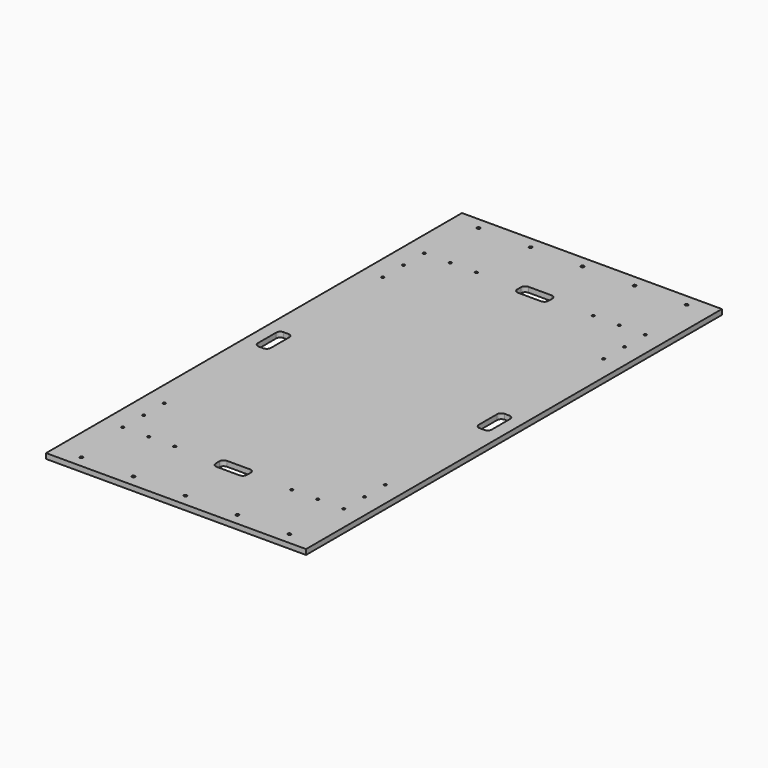
from build123d import *

# Parameters (mm, degrees)
F0_W     = 500
F0_H     = 1000
F1_DEPTH = 10
F3_D     = 6
F2_W     = 25
F2_H     = 30
F4_DEPTH = 25
F5_W     = 30
F5_H     = 25
F6_DEPTH = 25
F7_R     = 8
F9_D     = 5


with BuildPart() as f1:
    # F0 (on Top) → F1 (new body)
    with BuildSketch(Plane.XY):
        Rectangle(F0_W, F0_H)
    extrude(amount=F1_DEPTH)

    # F3 (through all)
    with Locations(Plane.XY.offset(10)):
        with Locations((200, 477.5), (100, 477.5), (0, 477.5), (-100, 477.5), (-200, 477.5), (200, -477.5), (100, -477.5), (0, -477.5), (-100, -477.5), (-200, -477.5)):
            Hole(F3_D / 2)

    # F2 (on face) → F4 (cut)
    with BuildSketch(Plane.XY.offset(10)):
        with Locations((212.5, -15)):
            Rectangle(F2_W, F2_H)
        with Locations((-212.5, -15)):
            Rectangle(F2_W, F2_H)
        with Locations((-212.5, 15)):
            Rectangle(F2_W, F2_H)
        with Locations((212.5, 15)):
            Rectangle(F2_W, F2_H)
    extrude(amount=-F4_DEPTH, mode=Mode.SUBTRACT)

    # F5 (on face) → F6 (cut)
    with BuildSketch(Plane.XY.offset(10)):
        with Locations((-15, -362.5)):
            Rectangle(F5_W, F5_H)
        with Locations((15, -362.5)):
            Rectangle(F5_W, F5_H)
        with Locations((-15, 362.5)):
            Rectangle(F5_W, F5_H)
        with Locations((15, 362.5)):
            Rectangle(F5_W, F5_H)
    extrude(amount=-F6_DEPTH, mode=Mode.SUBTRACT)

    # F7
    f7_edges = [f1.edges().sort_by_distance(p)[0] for p in [
        (30, 375, 5),
        (30, 350, 5),
        (-30, 375, 5),
        (-30, 350, 5),
        (200, -30, 5),
        (225, 30, 5),
        (200, 30, 5),
        (225, -30, 5),
        (-200, -30, 5),
        (-200, 30, 5),
        (-225, 30, 5),
        (-225, -30, 5),
        (-30, -375, 5),
        (30, -375, 5),
        (30, -350, 5),
        (-30, -350, 5),
    ]]
    fillet(f7_edges, radius=F7_R)

    # F9 (through all)
    with Locations(Plane.XY.offset(10)):
        with Locations((-212.5, -262.5), (-212.5, -312.5), (-162.5, -362.5), (-112.5, -362.5), (112.5, -362.5), (162.5, -362.5), (212.5, -312.5), (212.5, -262.5), (212.5, -362.5), (-212.5, -362.5), (212.5, 262.5), (212.5, 312.5), (162.5, 362.5), (112.5, 362.5), (-112.5, 362.5), (-162.5, 362.5), (-212.5, 312.5), (-212.5, 262.5), (212.5, 362.5), (-212.5, 362.5)):
            Hole(F9_D / 2)


solid = f1.part
